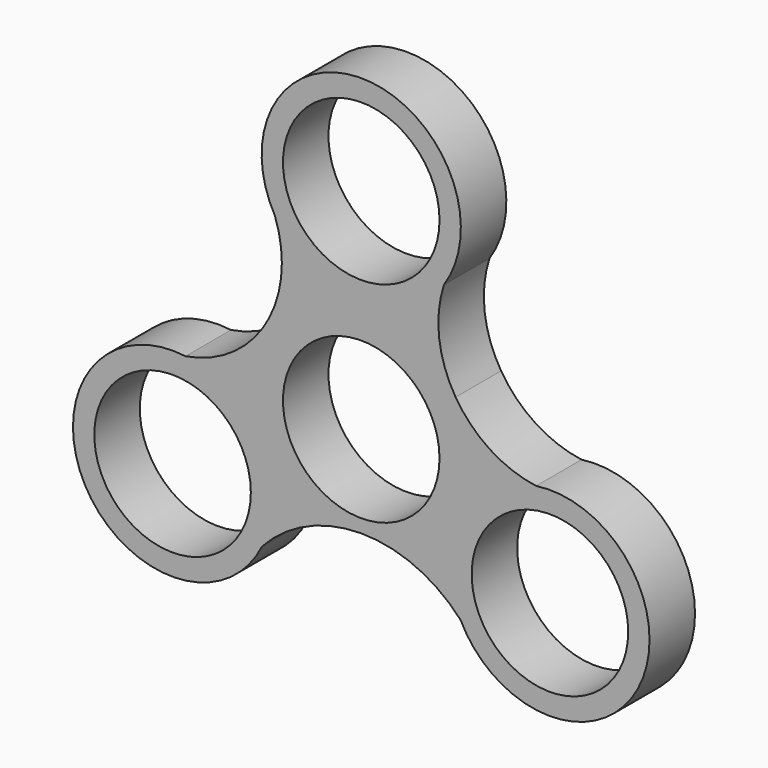
from build123d import *

# Parameters (mm, degrees)
F0_R     = 11.01
F1_DEPTH = 8


with BuildPart() as f1:
    # F0 (on Front) → F1 (new body)
    with BuildSketch(Plane.XZ):
        with BuildLine():
            Line((-0.005321, -12.872881), (0, -12.872881))
            ThreePointArc((0, -12.872881), (7.637377, -14.4872), (13.969531, -19.052215))
            ThreePointArc((13.969531, -19.052215), (38.923678, -19.430524), (24.590895, 1.000431))
            ThreePointArc((24.590895, 1.000431), (18.119278, 3.397548), (13.273127, 8.311083))
            Line((13.273127, 8.311083), (13.271576, 8.313559))
            ThreePointArc((13.271576, 8.313559), (10.964647, 14.822957), (11.635458, 21.696397))
            ThreePointArc((11.635458, 21.696397), (0.493122, 43.501319), (-12.155628, 22.534311))
            ThreePointArc((-12.155628, 22.534311), (-13.377153, 8.817437), (-24.727418, 1.018958))
            ThreePointArc((-24.727418, 1.018958), (-38.887945, -19.497546), (-13.963305, -19.039528))
            ThreePointArc((-13.963305, -19.039528), (-7.634852, -14.483732), (-0.005321, -12.872881))
        make_face()
        with Locations((-26.543152, -12.872881)):
            Circle(F0_R, mode=Mode.SUBTRACT)
        with Locations((26.543152, -12.872881)):
            Circle(F0_R, mode=Mode.SUBTRACT)
        Circle(F0_R, mode=Mode.SUBTRACT)
        with Locations((0, 29.5)):
            Circle(F0_R, mode=Mode.SUBTRACT)
    extrude(amount=F1_DEPTH)


solid = f1.part
